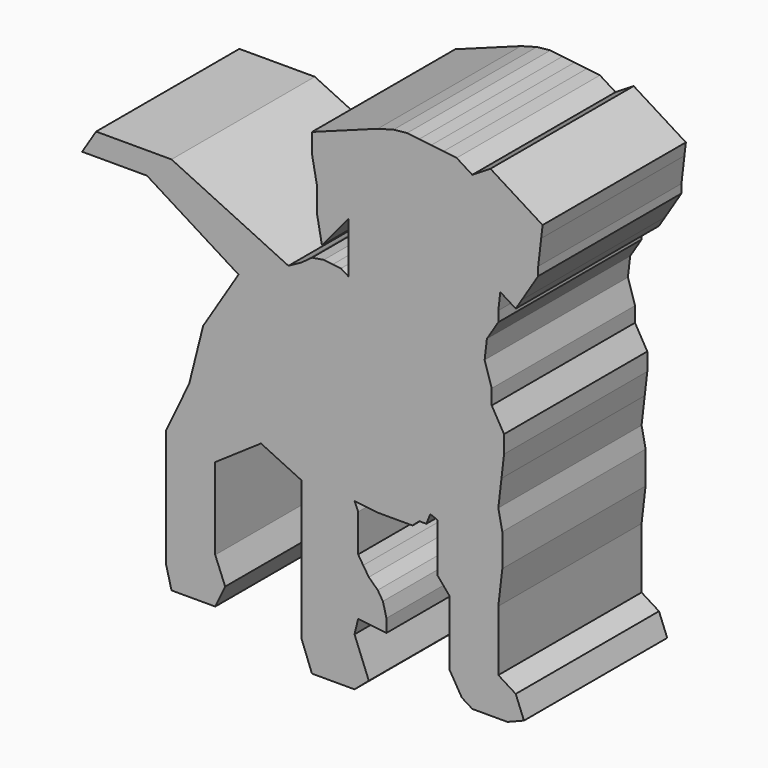
from build123d import *

# Parameters (mm, degrees)
F1_DEPTH = 25.4


with BuildPart() as f1:
    # F0 (on Front) → F1 (new body)
    with BuildSketch(Plane.XZ):
        Polygon((-36.657058, 13.813218), (-38.634382, 10.649496), (-29.441338, 10.649496), (-16.448003, 2.52867), (-21.472151, -5.509975), (-23.449069, -13.3819), (-26.721189, -20.258428), (-26.721189, -24.452301), (-26.721189, -37.052132), (-25.958963, -40.006805), (-19.755764, -40.006805), (-18.349815, -37.052132), (-19.755764, -33.562165), (-19.755764, -28.500162), (-19.755764, -21.963648), (-13.268332, -17.527793), (-7.529761, -20.258428), (-7.529761, -37.052132), (-7.529761, -40.006805), (-6.040169, -43.91915), (0, -43.91915), (2.030398, -42.189743), (0, -37.052132), (-0.887454, -32.503918), (-0.887454, -30.455308), (-0.887454, -28.034225), (0, -20.398496), (3.290899, -20.780977), (5.537732, -20.780977), (7.213868, -20.780977), (8.238172, -20.780977), (9.169359, -19.932901), (10.193664, -19.932901), (10.752375, -18.536123), (11.795948, -18.953552), (11.795948, -25.892494), (13.452818, -27.847987), (13.452818, -37.052132), (15.222071, -40.006805), (16.70198, -40.931748), (21.69138, -40.931748), (24.033716, -40.006805), (22.866973, -37.052132), (20.397942, -35.508989), (20.397942, -32.503918), (20.397942, -26.903253), (20.9637, -22.035432), (20.9637, -17.422371), (20.397942, -14.633874), (20.844123, -10.794904), (21.209698, -7.64946), (21.209698, -5.152992), (19.460583, -2.141417), (19.460583, 0), (18.456725, 3.212494), (18.777084, 5.968888), (20.397942, 8.562263), (20.397942, 10.016422), (20.677842, 12.4247), (22.866973, 11.056494), (23.722101, 12.4247), (26.054654, 16.156789), (26.054654, 17.378049), (26.475677, 21.000561), (26.677313, 22.735452), (19.279403, 27.35914), (16.70198, 25.764998), (14.486361, 27.149758), (12.621277, 27.366526), (10.876146, 27.569352), (9.169359, 27.767721), (7.452843, 27.967221), (5.537732, 27.767721), (3.290899, 27.151791), (-6.040169, 23.721304), (-6.040169, 21.000561), (-5.347158, 17.378049), (-5.347158, 13.867774), (-4.617267, 10.016422), (-0.887454, 14.524676), (-0.887454, 7.371743), (-1.922802, 8.018835), (-3.070138, 8.152183), (-4.341321, 8.299925), (-6.040169, 8.018835), (-7.529761, 6.933809), (-9.373561, 5.921237), (-25.958963, 13.813218), align=None)
        Polygon((-0.887454, -32.503918), (0, -37.052132), (0.515232, -34.941698), (2.030398, -35.117797), (3.290899, -35.264297), (4.526607, -35.407916), (4.526607, -34.476705), (4.526607, -33.562165), (4.025185, -31.611435), (3.290899, -30.455308), (2.030398, -29.247591), (1.231548, -28.034225), (0.515232, -26.903253), (0.515232, -24.878059), (0.515232, -23.517057), (0.515232, -21.583002), (0, -20.398496), (-0.887454, -28.034225), (-0.887454, -30.455308), align=None)
    extrude(amount=F1_DEPTH)


solid = f1.part
